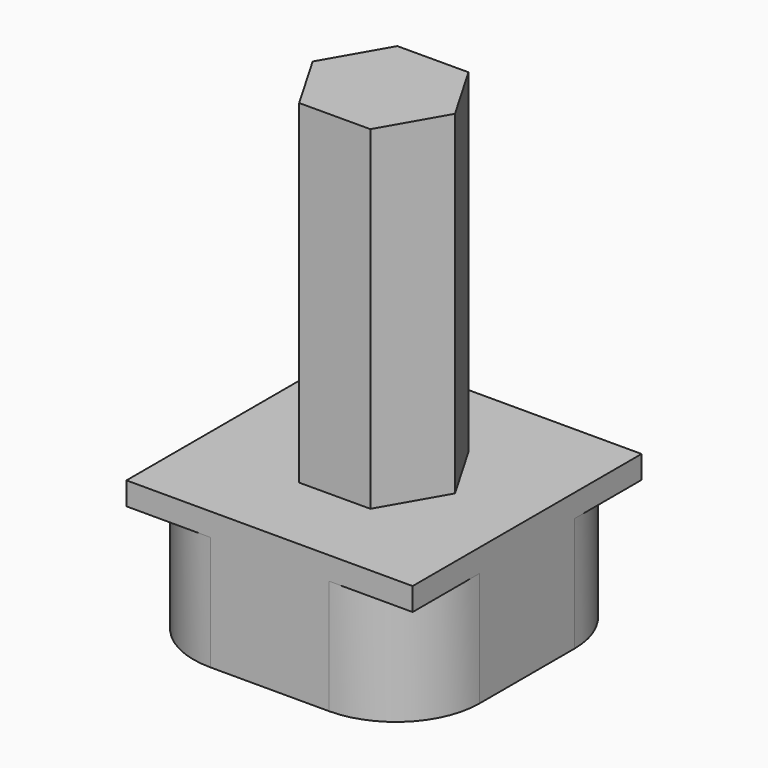
from build123d import *

# Parameters (mm, degrees)
F1_DEPTH = 6.35
F3_DEPTH = 1.27
F5_DEPTH = 18.542


with BuildPart() as f1:
    # F0 (on Top) → F1 (new body)
    with BuildSketch(Plane.XY):
        with BuildLine():
            Line((8.6645979291, 6.620054795), (2.0859979291, 6.620054795))
            ThreePointArc((2.0859979291, 6.620054795), (-1.2007758112, 5.2586285353), (-2.5622020709, 1.971854795))
            Line((-2.5622020709, 1.971854795), (-2.5622020709, -4.606745205))
            ThreePointArc((-2.5622020709, -4.606745205), (-1.2007758112, -7.8935189453), (2.0859979291, -9.254945205))
            Line((2.0859979291, -9.254945205), (8.6645979291, -9.254945205))
            ThreePointArc((8.6645979291, -9.254945205), (11.9513716694, -7.8935189453), (13.3127979291, -4.606745205))
            Line((13.3127979291, -4.606745205), (13.3127979291, 1.971854795))
            ThreePointArc((13.3127979291, 1.971854795), (11.9513716694, 5.2586285353), (8.6645979291, 6.620054795))
        make_face()
        with BuildLine():
            ThreePointArc((-0.0222020709, 1.971854795), (0.595275413, 3.4625773111), (2.0859979291, 4.080054795))
            Line((2.0859979291, 4.080054795), (8.6645979291, 4.080054795))
            ThreePointArc((8.6645979291, 4.080054795), (10.1553204452, 3.4625773111), (10.7727979291, 1.971854795))
            Line((10.7727979291, 1.971854795), (10.7727979291, -4.606745205))
            ThreePointArc((10.7727979291, -4.606745205), (10.1553204452, -6.0974677211), (8.6645979291, -6.714945205))
            Line((8.6645979291, -6.714945205), (2.0859979291, -6.714945205))
            ThreePointArc((2.0859979291, -6.714945205), (0.595275413, -6.0974677211), (-0.0222020709, -4.606745205))
            Line((-0.0222020709, -4.606745205), (-0.0222020709, 1.971854795))
        make_face(mode=Mode.SUBTRACT)
    extrude(amount=F1_DEPTH)

    # F2 (on face) → F3 (join)
    with BuildSketch(Plane.XY.offset(6.35)):
        with BuildLine():
            Line((8.6645979291, 6.620054795), (2.0859979291, 6.620054795))
            ThreePointArc((2.0859979291, 6.620054795), (-1.2007758112, 5.2586285353), (-2.5622020709, 1.971854795))
            Line((-2.5622020709, 1.971854795), (-2.5622020709, -4.606745205))
            ThreePointArc((-2.5622020709, -4.606745205), (-1.2007758112, -7.8935189453), (2.0859979291, -9.254945205))
            Line((2.0859979291, -9.254945205), (8.6645979291, -9.254945205))
            ThreePointArc((8.6645979291, -9.254945205), (11.9513716694, -7.8935189453), (13.3127979291, -4.606745205))
            Line((13.3127979291, -4.606745205), (13.3127979291, 1.971854795))
            ThreePointArc((13.3127979291, 1.971854795), (11.9513716694, 5.2586285353), (8.6645979291, 6.620054795))
        make_face()
        with BuildLine():
            Line((-0.0222020709, -4.606745205), (-0.0222020709, 1.971854795))
            ThreePointArc((-0.0222020709, 1.971854795), (0.595275413, 3.4625773111), (2.0859979291, 4.080054795))
            Line((2.0859979291, 4.080054795), (8.6645979291, 4.080054795))
            ThreePointArc((8.6645979291, 4.080054795), (10.1553204452, 3.4625773111), (10.7727979291, 1.971854795))
            Line((10.7727979291, 1.971854795), (10.7727979291, -4.606745205))
            ThreePointArc((10.7727979291, -4.606745205), (10.1553204452, -6.0974677211), (8.6645979291, -6.714945205))
            Line((8.6645979291, -6.714945205), (2.0859979291, -6.714945205))
            ThreePointArc((2.0859979291, -6.714945205), (0.595275413, -6.0974677211), (-0.0222020709, -4.606745205))
        make_face(mode=Mode.SUBTRACT)
        with BuildLine():
            ThreePointArc((2.0859979291, 4.080054795), (0.595275413, 3.4625773111), (-0.0222020709, 1.971854795))
            Line((-0.0222020709, 1.971854795), (-0.0222020709, -4.606745205))
            ThreePointArc((-0.0222020709, -4.606745205), (0.595275413, -6.0974677211), (2.0859979291, -6.714945205))
            Line((2.0859979291, -6.714945205), (8.6645979291, -6.714945205))
            ThreePointArc((8.6645979291, -6.714945205), (10.1553204452, -6.0974677211), (10.7727979291, -4.606745205))
            Line((10.7727979291, -4.606745205), (10.7727979291, 1.971854795))
            ThreePointArc((10.7727979291, 1.971854795), (10.1553204452, 3.4625773111), (8.6645979291, 4.080054795))
            Line((8.6645979291, 4.080054795), (2.0859979291, 4.080054795))
        make_face()
        with BuildLine():
            Line((2.0859979291, 6.620054795), (-2.5622020709, 6.620054795))
            Line((-2.5622020709, 6.620054795), (-2.5622020709, 1.971854795))
            ThreePointArc((-2.5622020709, 1.971854795), (-1.2007758112, 5.2586285353), (2.0859979291, 6.620054795))
        make_face()
        with BuildLine():
            ThreePointArc((2.0859979291, -9.254945205), (-1.2007758112, -7.8935189453), (-2.5622020709, -4.606745205))
            Line((-2.5622020709, -4.606745205), (-2.5622020709, -9.254945205))
            Line((-2.5622020709, -9.254945205), (2.0859979291, -9.254945205))
        make_face()
        with BuildLine():
            Line((13.3127979291, -9.254945205), (13.3127979291, -4.606745205))
            ThreePointArc((13.3127979291, -4.606745205), (11.9513716694, -7.8935189453), (8.6645979291, -9.254945205))
            Line((8.6645979291, -9.254945205), (13.3127979291, -9.254945205))
        make_face()
        with BuildLine():
            Line((13.3127979291, 6.620054795), (8.6645979291, 6.620054795))
            ThreePointArc((8.6645979291, 6.620054795), (11.9513716694, 5.2586285353), (13.3127979291, 1.971854795))
            Line((13.3127979291, 1.971854795), (13.3127979291, 6.620054795))
        make_face()
    extrude(amount=F3_DEPTH)

    # F4 (on face) → F5 (join)
    with BuildSketch(Plane.XY.offset(7.62)):
        Polygon((3.3965749548, 2.0775151044), (1.4346468435, -1.3400371025), (3.4133698178, -4.7478927907), (7.3540209034, -4.7381962721), (9.3159490147, -1.3206440652), (7.3372260404, 2.0872116231), align=None)
    extrude(amount=F5_DEPTH)


solid = f1.part
